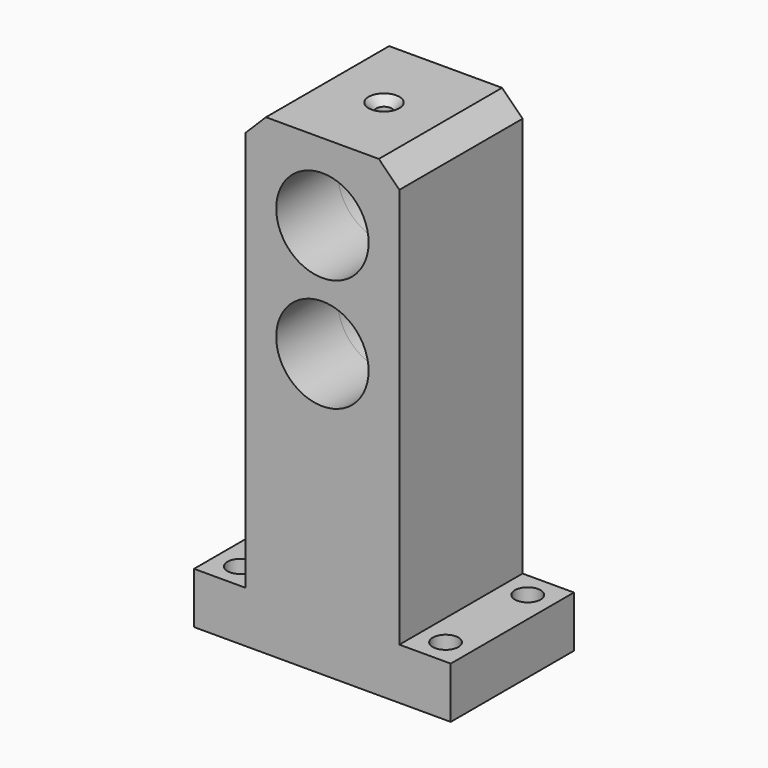
from build123d import *

# Parameters (mm, degrees)
F0_R           = 9
F1_DEPTH       = 15
F1_DEPTH_BACK  = 15
F2_SIZE        = 4
F4_D           = 3
F4_DEPTH       = 10
F4_CSINK_D     = 6
F4_CSINK_ANGLE = 90
F5_R           = 2.5
F6_DEPTH       = 10


with BuildPart() as f1:
    # F0 (on Front) → F1 (new body, two sides)
    with BuildSketch(Plane.XZ) as f1_sk:
        Polygon((0, 10), (0, 0), (50, 0), (50, 10), (40, 10), (40, 92), (10, 92), (10, 10), align=None)
        with Locations((25, 55)):
            Circle(F0_R, mode=Mode.SUBTRACT)
        with Locations((25, 77)):
            Circle(F0_R, mode=Mode.SUBTRACT)
    extrude(amount=F1_DEPTH)
    extrude(f1_sk.sketch, amount=-F1_DEPTH_BACK)

    # F2
    f2_edges = [f1.edges().sort_by_distance(p)[0] for p in [
        (40, 0, 92),
        (10, 0, 92),
    ]]
    chamfer(f2_edges, length=F2_SIZE)

    # F4
    with Locations(Plane.XY.offset(92)):
        with Locations((25, 0)):
            CounterSinkHole(F4_D / 2, F4_CSINK_D / 2, depth=F4_DEPTH, counter_sink_angle=F4_CSINK_ANGLE)

    # F5 (on face) → F6 (cut)
    with BuildSketch(Plane.XY.offset(10)):
        with Locations((5, 10)):
            Circle(F5_R)
        with Locations((5, -10)):
            Circle(F5_R)
        with Locations((45, -10)):
            Circle(F5_R)
        with Locations((45, 10)):
            Circle(F5_R)
    extrude(amount=-F6_DEPTH, mode=Mode.SUBTRACT)


solid = f1.part
